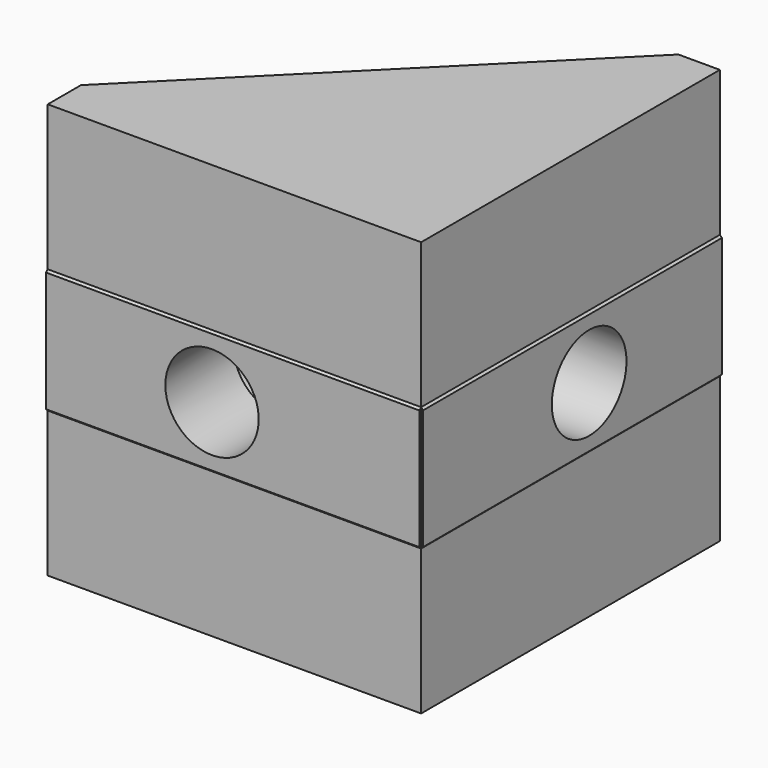
from build123d import *

# Parameters (mm, degrees)
SKETCH_W        = 20
SKETCH_H        = 20
PAD_DEPTH       = 20
PAD001_DEPTH    = 20
PAD002_DEPTH    = 20
SKETCH004_R     = 2.25
POCKET001_DEPTH = 20.1
SKETCH005_R     = 4
POCKET002_DEPTH = 16
SKETCH006_R     = 2.25
POCKET003_DEPTH = 20.1
SKETCH007_R     = 4
POCKET004_DEPTH = 16
POCKET_DEPTH    = 20


with BuildPart() as part:
    # Sketch → Pad (new body)
    with BuildSketch(Plane.XY):
        Rectangle(SKETCH_W, SKETCH_H)
    extrude(amount=PAD_DEPTH)

    # Sketch001 (on DatumPlane) → Pad001 (join)
    with BuildSketch(Plane.XZ.offset(10)):
        Polygon((10, 13), (10.1, 12.9), (10.1, 7.1), (10, 7), align=None)
    extrude(amount=-PAD001_DEPTH)

    # Sketch002 (on DatumPlane) → Pad002 (join)
    with BuildSketch(Plane.YZ.offset(10)):
        Polygon((-10, 13), (-10, 7), (-10.1, 7.1), (-10.1, 12.9), align=None)
    extrude(amount=-PAD002_DEPTH)

    # Sketch004 (on DatumPlane) → Pocket001 (cut)
    with BuildSketch(Plane(origin=(-10, 0, 0), x_dir=(0, -1, 0), z_dir=(-1, 0, 0))):
        with Locations((20, 10)):
            Circle(SKETCH004_R)
        with Locations((0, 10)):
            Circle(SKETCH004_R)
    extrude(amount=-POCKET001_DEPTH, mode=Mode.SUBTRACT)

    # Sketch005 (on DatumPlane) → Pocket002 (cut)
    with BuildSketch(Plane(origin=(-10, 0, 0), x_dir=(0, -1, 0), z_dir=(-1, 0, 0))):
        with Locations((20, 10)):
            Circle(SKETCH005_R)
        with Locations((0, 10)):
            Circle(SKETCH005_R)
    extrude(amount=-POCKET002_DEPTH, mode=Mode.SUBTRACT)

    # Sketch006 (on DatumPlane) → Pocket003 (cut)
    with BuildSketch(Plane(origin=(0, 10, 0), x_dir=(-1, 0, 0), z_dir=(0, 1, 0))):
        with Locations((0, 10)):
            Circle(SKETCH006_R)
        with Locations((20, 10)):
            Circle(SKETCH006_R)
    extrude(amount=-POCKET003_DEPTH, mode=Mode.SUBTRACT)

    # Sketch007 (on DatumPlane) → Pocket004 (cut)
    with BuildSketch(Plane(origin=(0, 10, 0), x_dir=(-1, 0, 0), z_dir=(0, 1, 0))):
        with Locations((0, 10)):
            Circle(SKETCH007_R)
        with Locations((20, 10)):
            Circle(SKETCH007_R)
    extrude(amount=-POCKET004_DEPTH, mode=Mode.SUBTRACT)

    # Sketch008 (on DatumPlane) → Pocket (cut)
    with BuildSketch(Plane.XY.offset(20)):
        Polygon((10.1, 10.1), (-10.1, 10.1), (-10.1, -10.1), (-8, -10.1), (-8, -8), (8, 8), (10.1, 8), align=None)
    extrude(amount=-POCKET_DEPTH, mode=Mode.SUBTRACT)


solid = part.part
